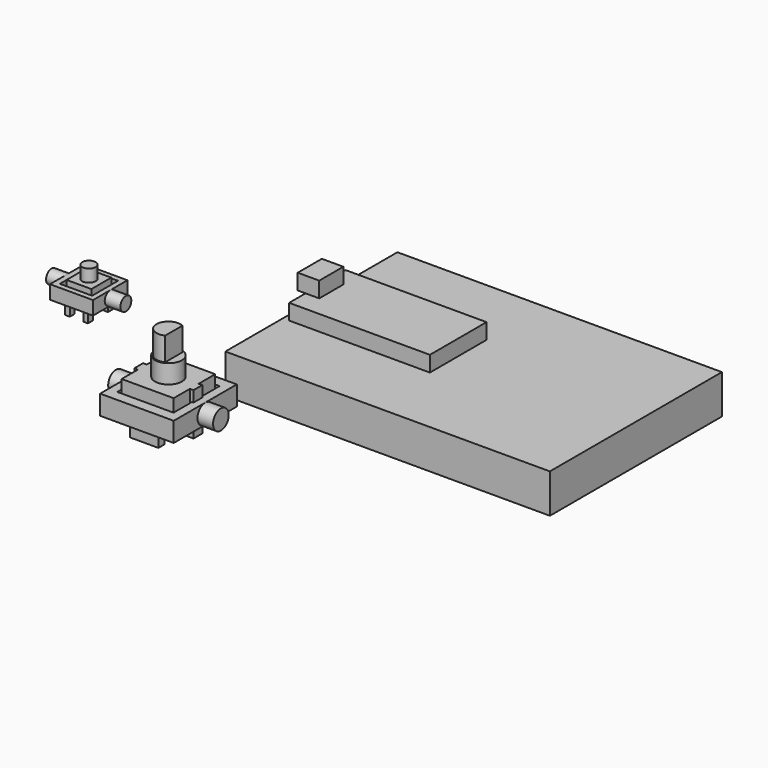
from build123d import *

# Parameters (mm, degrees)
F0_W           = 6.35
F0_H           = 6.35
F1_DEPTH       = 3.3
F3_W           = 1.2
F3_H           = 4.8
F2_W           = 1.2
F2_H           = 4.8
F4_DEPTH       = 0.775
F5_R           = 1.725
F6_DEPTH       = 3.19
F7_W           = 13.3
F7_H           = 13.3
F8_DEPTH       = 6.8
F10_W          = 2.8
F10_H          = 10.9
F9_W           = 2.8
F9_H           = 10.9
F11_DEPTH      = 0.925
F13_W          = 7.3
F13_H          = 7.3
F12_W          = 7.3
F12_H          = 7.3
F14_DEPTH      = 1
F15_R          = 3.45
F16_DEPTH      = 4.8
F17_R          = 3.075
F18_DEPTH      = 6
F20_DEPTH      = 6
F21_W          = 83
F21_H          = 55
F22_DEPTH      = 10
F23_W          = 36
F23_H          = 18.1
F24_DEPTH      = 4
F25_W          = 5.5
F25_H          = 7.7
F26_DEPTH      = 4
F27_W          = 11
F27_H          = 11
F28_DEPTH      = 2.5
F28_DEPTH_BACK = 1
F30_W          = 8.25
F30_H          = 8.25
F31_DEPTH      = 2.5
F32_R          = 1.75
F33_DEPTH      = 4
F34_R          = 1.75
F35_DEPTH      = 4
F36_W          = 18.822548911
F36_H          = 20.1564300805
F37_DEPTH      = 4
F37_DEPTH_BACK = 1
F39_W          = 14.3762780353
F39_H          = 14.7220985964
F40_DEPTH      = 4
F41_R          = 2.5
F42_DEPTH      = 4
F43_R          = 2.5
F44_DEPTH      = 4


with BuildPart() as f1:
    # F0 (on Top) → F1 (new body)
    with BuildSketch(Plane.XY):
        with Locations((-43.0315323174, 28.3668454009)):
            Rectangle(F0_W, F0_H)
    extrude(amount=F1_DEPTH)

    # F3 (on face) + F2 (on face) → F4 (join, symmetric)
    with BuildSketch(Plane(origin=(0, 31.5418454009, 0), x_dir=(-1, 0, 0), z_dir=(0, 1, 0))):
        with Locations((45.50699839, -1.8203162122)):
            Rectangle(F3_W, F3_H)
        with Locations((40.6726454794, -1.8203162122)):
            Rectangle(F3_W, F3_H)
    with BuildSketch(Plane.XZ.offset(-25.1918454009)):
        with Locations((-40.7217028141, -1.8)):
            Rectangle(F2_W, F2_H)
        with Locations((-45.3413618207, -1.8)):
            Rectangle(F2_W, F2_H)
    extrude(amount=F4_DEPTH, both=True, dir=(0, 1, 0))

    # F5 (on face) → F6 (join)
    with BuildSketch(Plane.XY.offset(3.3)):
        with Locations((-43.0315323174, 28.3668454009)):
            Circle(F5_R)
    extrude(amount=F6_DEPTH)


with BuildPart() as f8:
    # F7 (on Top) → F8 (new body)
    with BuildSketch(Plane.XY):
        Rectangle(F7_W, F7_H)
    extrude(amount=F8_DEPTH)

    # F10 (on face) + F9 (on face) → F11 (join, symmetric)
    with BuildSketch(Plane.YZ.offset(6.65)):
        with Locations((-0.0559225006, 1.35)):
            Rectangle(F10_W, F10_H)
    with BuildSketch(Plane(origin=(-6.65, 0, 0), x_dir=(0, -1, 0), z_dir=(-1, 0, 0))):
        with Locations((0.0361891497, 1.35)):
            Rectangle(F9_W, F9_H)
    extrude(amount=F11_DEPTH, both=True, dir=(1, 0, 0))

    # F13 (on face) + F12 (on face) → F14 (join, symmetric)
    with BuildSketch(Plane.XZ.offset(6.65)):
        with Locations((-0.1, -1.35)):
            Rectangle(F13_W, F13_H)
    with BuildSketch(Plane(origin=(0, 6.65, 0), x_dir=(-1, 0, 0), z_dir=(0, 1, 0))):
        with Locations((0.1, -1.35)):
            Rectangle(F12_W, F12_H)
    extrude(amount=F14_DEPTH, both=True, dir=(0, -1, 0))

    # F15 (on face) → F16 (join)
    with BuildSketch(Plane.XY.offset(6.8)):
        Circle(F15_R)
    extrude(amount=F16_DEPTH)

    # F17 (on face) → F18 (join)
    with BuildSketch(Plane.XY.offset(11.6)):
        Circle(F17_R)
    extrude(amount=F18_DEPTH)

    # F19 (on face) → F20 (cut, through all)
    with BuildSketch(Plane.XY.offset(17.6)):
        with BuildLine():
            Line((1.3759087906, 2.75), (1.3759087906, -2.75))
            ThreePointArc((1.3759087906, -2.75), (3.075, 0), (1.3759087906, 2.75))
        make_face()
    extrude(amount=-F20_DEPTH, mode=Mode.SUBTRACT)


with BuildPart() as f22:
    # F21 (on Top) → F22 (new body)
    with BuildSketch(Plane.XY):
        with Locations((47.4412734883, 38.2687970996)):
            Rectangle(F21_W, F21_H)
    extrude(amount=F22_DEPTH)

    # F23 (on face) → F24 (join)
    with BuildSketch(Plane.XY.offset(10)):
        with Locations((25.5328132771, 38.2187970996)):
            Rectangle(F23_W, F23_H)
    extrude(amount=F24_DEPTH)

    # F25 (on face) → F26 (join)
    with BuildSketch(Plane.XY.offset(14)):
        with Locations((8.2833440974, 38.2665689378)):
            Rectangle(F25_W, F25_H)
    extrude(amount=F26_DEPTH)


with BuildPart() as f28:
    # F27 (on face) → F28 (new body, two sides)
    with BuildSketch(Plane(origin=(0, 0, 0), x_dir=(1, 0, 0), z_dir=(0, 0, -1))) as f28_sk:
        with Locations((-43.0898219347, -28.3668454009)):
            Rectangle(F27_W, F27_H)
    extrude(amount=-F28_DEPTH)
    extrude(f28_sk.sketch, amount=F28_DEPTH_BACK)

    # F29: cut F1
    add(f1.part, mode=Mode.SUBTRACT)

    # F30 (on face) → F31 (cut, through all)
    with BuildSketch(Plane.XY.offset(2.5)):
        with Locations((-43.0315323174, 28.3668454009)):
            Rectangle(F30_W, F30_H)
    extrude(amount=-F31_DEPTH, mode=Mode.SUBTRACT)

    # F32 (on face) → F33 (join)
    with BuildSketch(Plane(origin=(-48.5898219347, 0, 0), x_dir=(0, -1, 0), z_dir=(-1, 0, 0))):
        with Locations((-28.3668454009, 0.75)):
            Circle(F32_R)
    extrude(amount=F33_DEPTH)

    # F34 (on face) → F35 (join)
    with BuildSketch(Plane.YZ.offset(-37.5898219347)):
        with Locations((28.3668454009, 0.75)):
            Circle(F34_R)
    extrude(amount=F35_DEPTH)


with BuildPart() as f37:
    # F36 (on face) → F37 (new body, two sides)
    with BuildSketch(Plane(origin=(0, 0, 0), x_dir=(1, 0, 0), z_dir=(0, 0, -1))) as f37_sk:
        Rectangle(F36_W, F36_H)
    extrude(amount=-F37_DEPTH)
    extrude(f37_sk.sketch, amount=F37_DEPTH_BACK)

    # F38: cut F8
    add(f8.part, mode=Mode.SUBTRACT)

    # F39 (on face) → F40 (cut, through all)
    with BuildSketch(Plane.XY.offset(4)):
        Rectangle(F39_W, F39_H)
    extrude(amount=-F40_DEPTH, mode=Mode.SUBTRACT)

    # F41 (on face) → F42 (join)
    with BuildSketch(Plane(origin=(-9.4112744555, 0, 0), x_dir=(0, -1, 0), z_dir=(-1, 0, 0))):
        with Locations((0, 1.5)):
            Circle(F41_R)
    extrude(amount=F42_DEPTH)

    # F43 (on face) → F44 (join)
    with BuildSketch(Plane.YZ.offset(9.4112744555)):
        with Locations((0, 1.5)):
            Circle(F43_R)
    extrude(amount=F44_DEPTH)


solid = Compound([f1.part, f8.part, f22.part, f28.part, f37.part])
